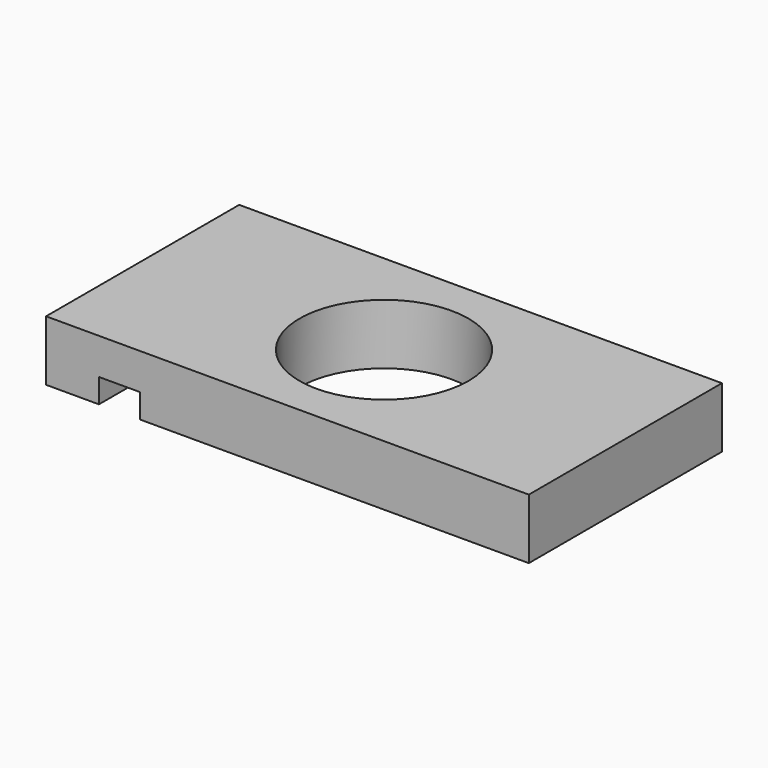
from build123d import *

# Parameters (mm, degrees)
F0_W     = 200
F0_H     = 100
F0_R     = 35
F1_DEPTH = 25
F2_W     = 17
F2_H     = 100
F3_DEPTH = 10


with BuildPart() as f1:
    # F0 (on Top) → F1 (new body)
    with BuildSketch(Plane.XY):
        Rectangle(F0_W, F0_H)
        Circle(F0_R, mode=Mode.SUBTRACT)
    extrude(amount=F1_DEPTH)

    # F2 (on Top) → F3 (cut)
    with BuildSketch(Plane.XY):
        with Locations((-69.6, 0)):
            Rectangle(F2_W, F2_H)
    extrude(amount=F3_DEPTH, mode=Mode.SUBTRACT)


solid = f1.part
